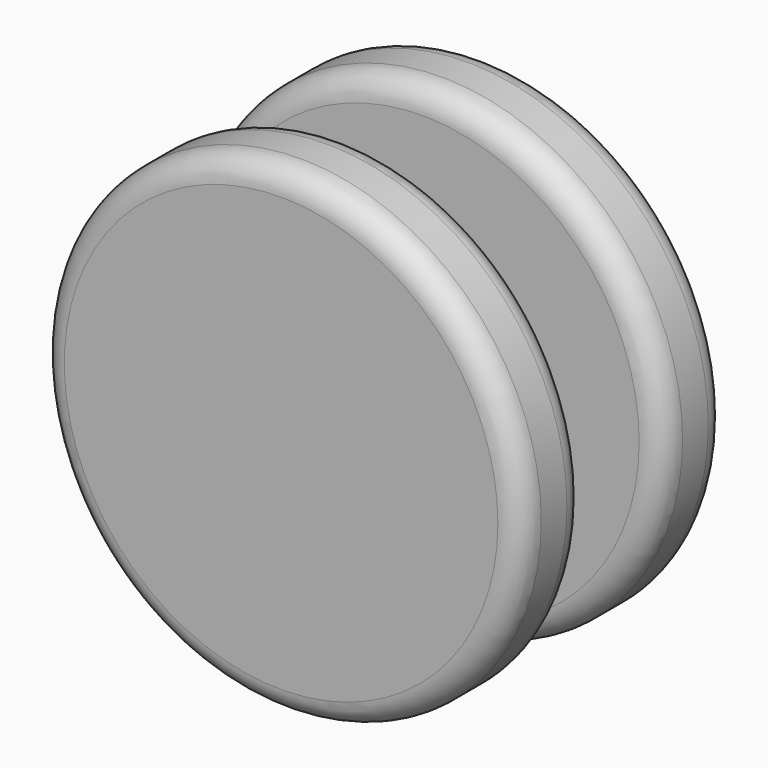
from build123d import *

# Parameters (mm, degrees)
F0_R     = 30
F1_DEPTH = 10
F2_R     = 3
F3_R     = 5
F4_DEPTH = 6


with BuildPart() as f1:
    # F0 (on Front) → F1 (new body)
    with BuildSketch(Plane.XZ):
        Circle(F0_R)
    extrude(amount=F1_DEPTH)

    # F2
    f2_edges = [f1.edges().sort_by_distance(p)[0] for p in [
        (-30, -10, 0),
        (-30, 0, 0),
    ]]
    fillet(f2_edges, radius=F2_R)

    # F3 (on face) → F4 (join)
    with BuildSketch(Plane.XZ.offset(10)):
        Circle(F3_R)
    extrude(amount=F4_DEPTH)

    # F5: F1 across face


with BuildPart() as f1_1:
    add(f1.part)
    add(f1.part.mirror(Plane.XZ.offset(16)))


solid = f1_1.part
